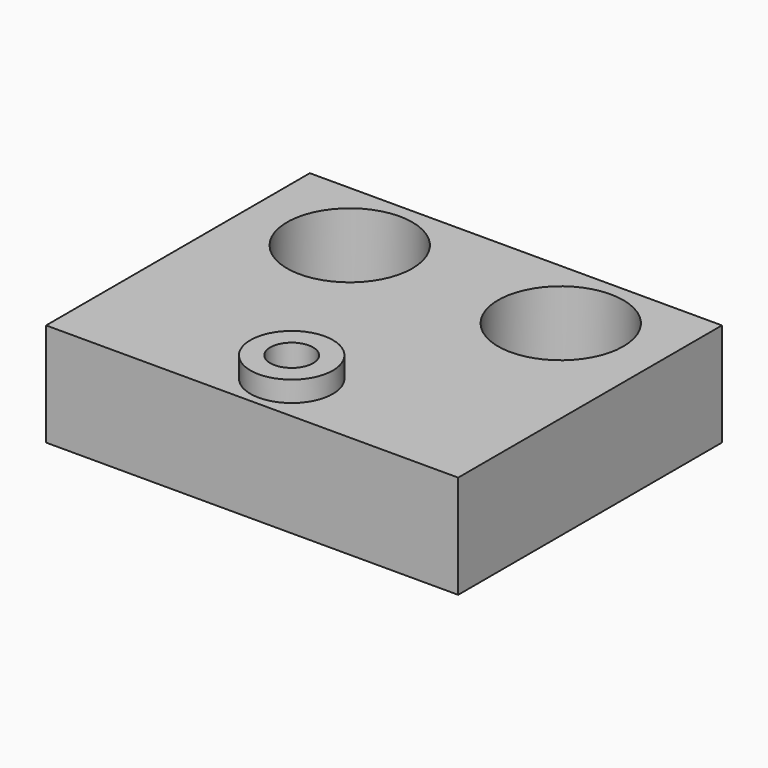
from build123d import *

# Parameters (mm, degrees)
F0_W     = 31.75
F0_H     = 25.4
F0_R     = 4.826
F1_DEPTH = 7.9502
F2_R     = 3.175
F3_DEPTH = 1.5875
F4_R     = 1.651
F5_DEPTH = 4.7625


with BuildPart() as f1:
    # F0 (on Top) → F1 (new body)
    with BuildSketch(Plane.XY):
        Rectangle(F0_W, F0_H)
        with Locations((-8.128, 6.858)):
            Circle(F0_R, mode=Mode.SUBTRACT)
        with Locations((8.128, 6.858)):
            Circle(F0_R, mode=Mode.SUBTRACT)
    extrude(amount=F1_DEPTH)

    # F2 (on face) → F3 (join)
    with BuildSketch(Plane.XY.offset(7.9502)):
        with Locations((0, -8.89)):
            Circle(F2_R)
    extrude(amount=F3_DEPTH)

    # F4 (on face) → F5 (cut)
    with BuildSketch(Plane.XY.offset(9.5377)):
        with Locations((0, -8.89)):
            Circle(F4_R)
    extrude(amount=-F5_DEPTH, mode=Mode.SUBTRACT)


solid = f1.part
